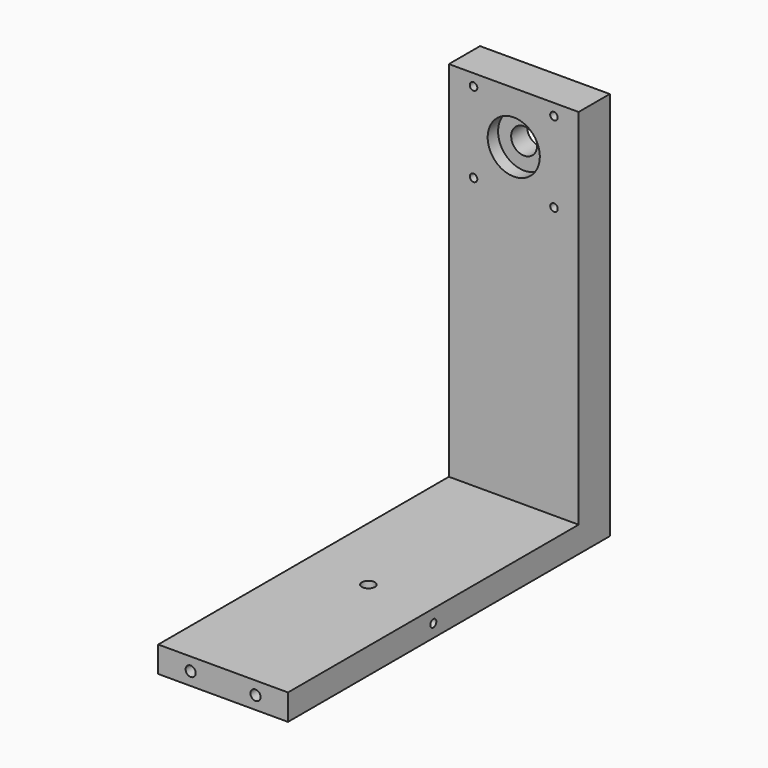
from build123d import *

# Parameters (mm, degrees)
F1_DEPTH  = 50
F2_R      = 5
F2_R_2    = 1.45
F3_DEPTH  = 15
F2_R_3    = 10.05
F4_DEPTH  = 5
F5_R      = 11.05
F5_R_2    = 5
F6_DEPTH  = 2.3
F7_R      = 1.95
F8_DEPTH  = 34
F9_R      = 2.505
F10_DEPTH = 10
F11_R     = 1.45
F12_DEPTH = 22.958324159


with BuildPart() as f1:
    # F0 (on Right) → F1 (new body)
    with BuildSketch(Plane.YZ):
        Polygon((-15, 150), (-15, 10), (-155, 10), (-155, 0), (0, 0), (0, 150), align=None)
    extrude(amount=F1_DEPTH)

    # F2 (on face) → F3 (cut, through all)
    with BuildSketch(Plane.XZ.offset(15)):
        with Locations((25, 130)):
            Circle(F2_R)
        with Locations((9.5, 145.5)):
            Circle(F2_R_2)
        with Locations((9.5, 114.5)):
            Circle(F2_R_2)
        with Locations((40.5, 114.5)):
            Circle(F2_R_2)
        with Locations((40.5, 145.5)):
            Circle(F2_R_2)
    extrude(amount=-F3_DEPTH, mode=Mode.SUBTRACT)

    # F2 (on face) → F4 (cut)
    with BuildSketch(Plane.XZ.offset(15)):
        with Locations((25, 130)):
            Circle(F2_R_3)
        with Locations((25, 130)):
            Circle(F2_R, mode=Mode.SUBTRACT)
    extrude(amount=-F4_DEPTH, mode=Mode.SUBTRACT)

    # F5 (on face) → F6 (cut)
    with BuildSketch(Plane(origin=(0, 0, 0), x_dir=(-1, 0, 0), z_dir=(0, 1, 0))):
        with Locations((-25, 130)):
            Circle(F5_R)
        with Locations((-25, 130)):
            Circle(F5_R_2, mode=Mode.SUBTRACT)
    extrude(amount=-F6_DEPTH, mode=Mode.SUBTRACT)

    # F7 (on face) → F8 (cut)
    with BuildSketch(Plane.XZ.offset(155)):
        with Locations((12.5, 5)):
            Circle(F7_R)
        with Locations((37.5, 5)):
            Circle(F7_R)
    extrude(amount=-F8_DEPTH, mode=Mode.SUBTRACT)

    # F9 (on face) → F10 (cut, through all)
    with BuildSketch(Plane.XY.offset(10)):
        with Locations((25, -85)):
            Circle(F9_R)
    extrude(amount=-F10_DEPTH, mode=Mode.SUBTRACT)

    # F11 (on face) → F12 (cut, through all)
    with BuildSketch(Plane.YZ.offset(50)):
        with Locations((-85, 5)):
            Circle(F11_R)
    extrude(amount=-F12_DEPTH, mode=Mode.SUBTRACT)


solid = f1.part
